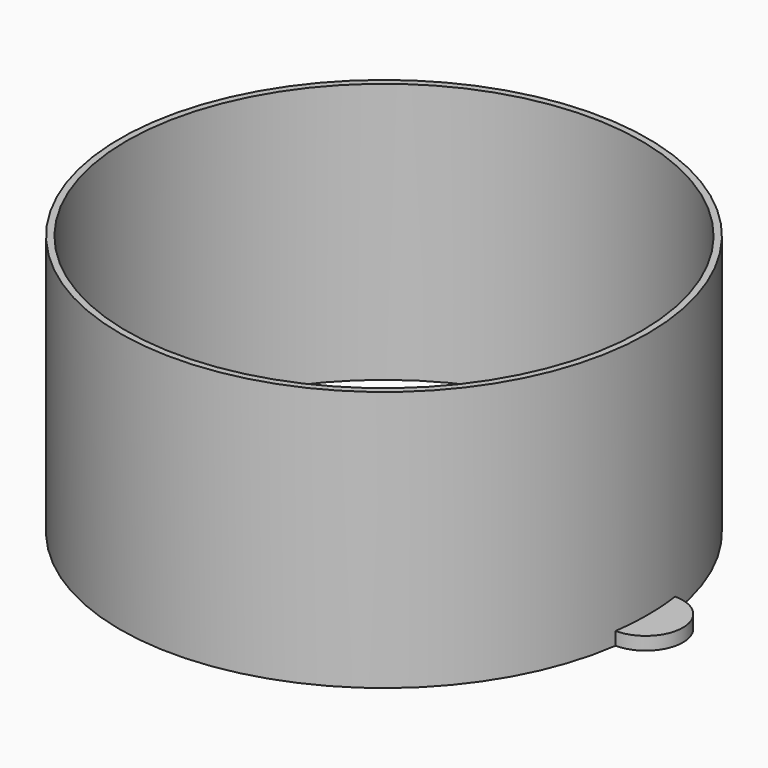
from build123d import *

# Parameters (mm, degrees)
F0_R     = 40.5
F1_DEPTH = 40
F2_R     = 39.5
F3_DEPTH = 42
F4_R     = 5.70155
F5_DEPTH = 2


with BuildPart() as f1:
    # F0 (on Top) → F1 (new body)
    with BuildSketch(Plane.XY):
        Circle(F0_R)
    extrude(amount=F1_DEPTH)

    # F2 (on face) → F3 (cut)
    with BuildSketch(Plane.XY.offset(40)):
        Circle(F2_R)
    extrude(amount=-F3_DEPTH, mode=Mode.SUBTRACT)

    # F4 (on Top) → F5 (join)
    with BuildSketch(Plane.XY):
        with Locations((-40.165663, 0)):
            Circle(F4_R)
        with Locations((40.165663, 0)):
            Circle(F4_R)
    extrude(amount=F5_DEPTH)


solid = f1.part
